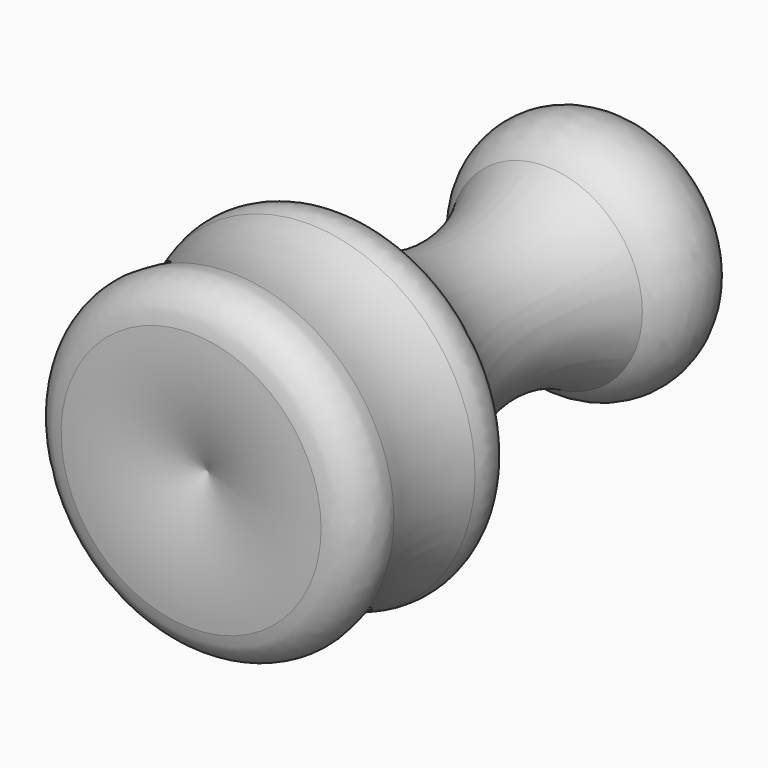
from build123d import *

# Parameters (mm, degrees)
F2_R = 5.08


with BuildPart() as f1:
    # F0 (on Top) → F1 (revolve)
    with BuildSketch(Plane.XY):
        with BuildLine():
            Line((0, 34.392789), (0, -29.787894))
            ThreePointArc((0, -29.787894), (11.890342, -32.604067), (24.031781, -31.226924))
            ThreePointArc((24.031781, -31.226924), (20.763853, -20.290305), (24.031781, -9.353687))
            ThreePointArc((24.031781, -9.353687), (10.51857, 5.841172), (12.807355, 26.046421))
            ThreePointArc((12.807355, 26.046421), (12.266796, 39.216458), (0, 34.392789))
        make_face()
    revolve(axis=Axis((0, 2.302447, 0), (0, -1, 0)))

    # F2
    f2_edges = [f1.edges().sort_by_distance(p)[0] for p in [
        (-24.031781, -31.226924, 0),
        (-24.031781, -9.353687, 0),
        (20.763853, -20.290305, 0),
    ]]
    fillet(f2_edges, radius=F2_R)


solid = f1.part
